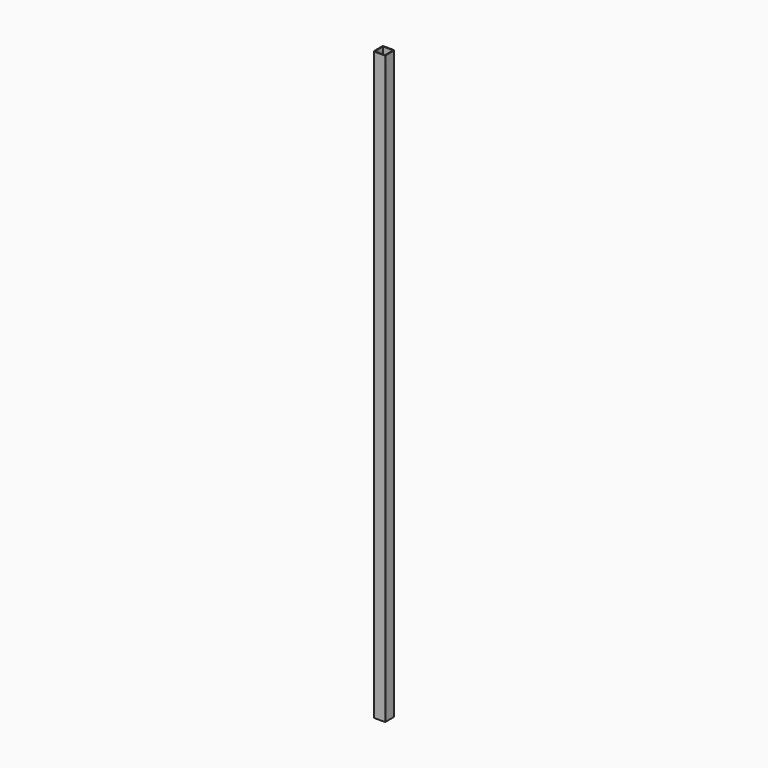
from build123d import *

# Parameters (mm, degrees)
F0_W     = 50
F0_H     = 50
F1_DEPTH = 2500
F2_W     = 43.6
F2_H     = 43.6
F3_DEPTH = 2500.001
F4_R     = 3
F5_R     = 1


with BuildPart() as f1:
    # F0 (on Top) → F1 (new body)
    with BuildSketch(Plane.XY):
        Rectangle(F0_W, F0_H)
    extrude(amount=F1_DEPTH)

    # F2 (on face) → F3 (cut, through all)
    with BuildSketch(Plane.XY.offset(2500)):
        Rectangle(F2_W, F2_H)
    extrude(amount=-F3_DEPTH, mode=Mode.SUBTRACT)

    # F4
    f4_edges = [f1.edges().sort_by_distance(p)[0] for p in [
        (25, -25, 1250),
        (25, 25, 1250),
        (-25, -25, 1250),
        (-25, 25, 1250),
    ]]
    fillet(f4_edges, radius=F4_R)

    # F5
    f5_edges = [f1.edges().sort_by_distance(p)[0] for p in [
        (21.8, -21.8, 1250),
        (-21.8, 21.8, 1250),
        (21.8, 21.8, 1250),
        (-21.8, -21.8, 1250),
    ]]
    fillet(f5_edges, radius=F5_R)


solid = f1.part
